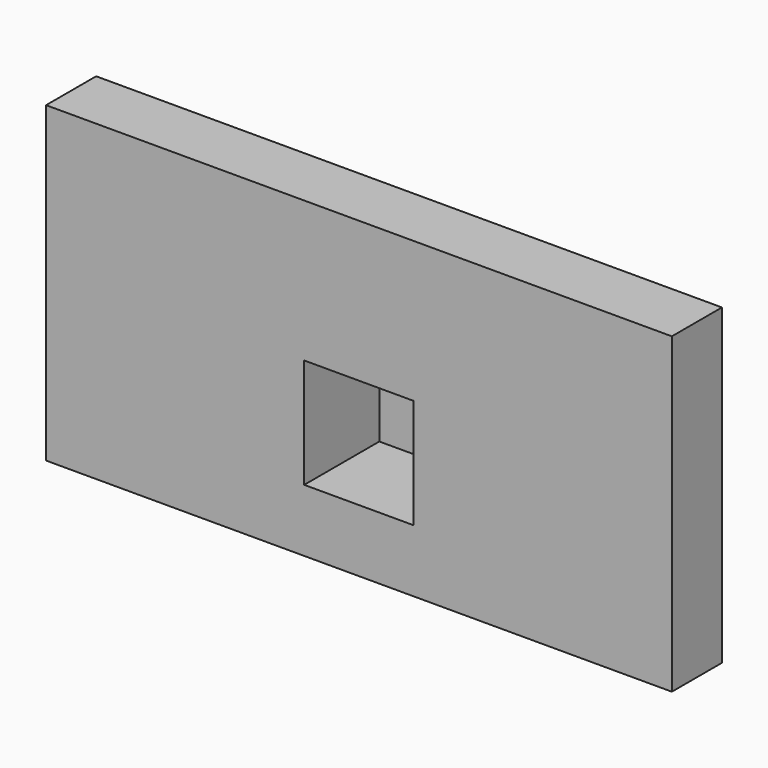
from build123d import *

# Parameters (mm, degrees)
F1_DEPTH = 3
F2_W     = 1.4
F2_H     = 1.4
F3_DEPTH = 1.2
F4_R     = 0.5
F5_W     = 0.8
F5_H     = 1
F6_DEPTH = 8
F7_W     = 0.5999999121
F7_H     = 0.5
F8_DEPTH = 3
F9_R     = 0.2


with BuildPart() as f1:
    # F0 (on Top) → F1 (new body)
    with BuildSketch(Plane.XY):
        Polygon((0, 0.8), (0, 0), (8, 0), (8, 0.8), (5.5, 0.8), (5.5, 2), (2.5, 2), (2.5, 0.8), align=None)
    extrude(amount=F1_DEPTH)

    # F2 (on face) → F3 (cut)
    with BuildSketch(Plane.XZ):
        with Locations((4, 1.5)):
            Rectangle(F2_W, F2_H)
    extrude(amount=-F3_DEPTH, mode=Mode.SUBTRACT)

    # F4
    f4_edges = [f1.edges().sort_by_distance(p)[0] for p in [
        (5.5, 1.4, 3),
        (2.5, 1.4, 3),
        (2.5, 1.4, 0),
        (5.5, 1.4, 0),
    ]]
    fillet(f4_edges, radius=F4_R)

    # F5 (on face) → F6 (join, through all)
    with BuildSketch(Plane.YZ.offset(8)):
        with Locations((0.4, 3.5)):
            Rectangle(F5_W, F5_H)
    extrude(amount=-F6_DEPTH)

    # F7 (on face) → F8 (cut, through all)
    with BuildSketch(Plane.XY.offset(3)):
        with Locations((4, 1.75)):
            Rectangle(F7_W, F7_H)
    extrude(amount=-F8_DEPTH, mode=Mode.SUBTRACT)

    # F9
    f9_edges = [f1.edges().sort_by_distance(p)[0] for p in [
        (3.35, 2, 3),
        (4.65, 2, 3),
        (5.353553, 2, 2.853553),
        (5.5, 2, 1.5),
        (5.353553, 2, 0.146447),
        (3.35, 2, 0),
        (4.65, 2, 0),
        (2.646447, 2, 0.146447),
        (2.5, 2, 1.5),
        (2.646447, 2, 2.853553),
    ]]
    fillet(f9_edges, radius=F9_R)


solid = f1.part
